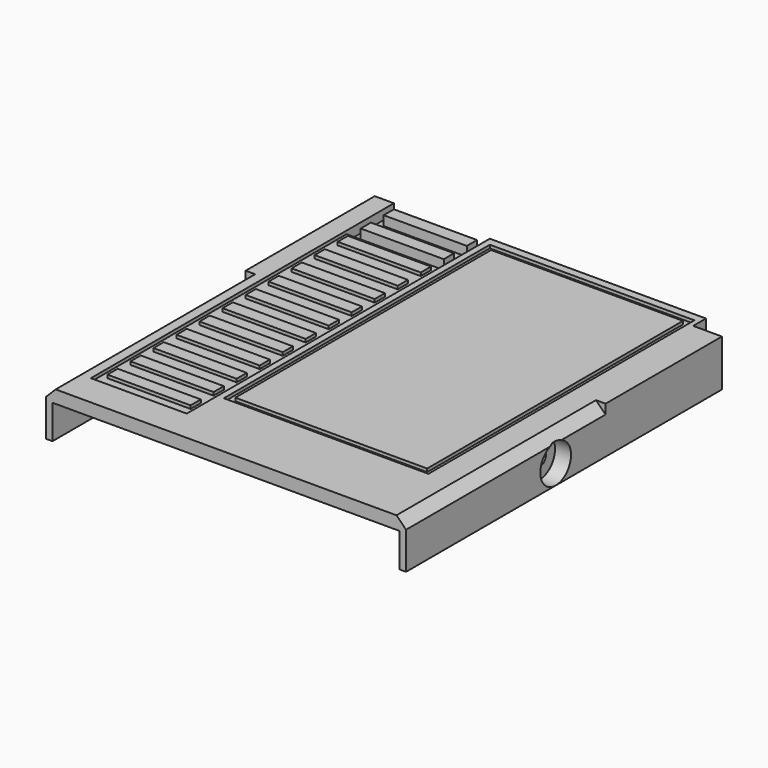
from build123d import *

# Parameters (mm, degrees)
BOX017_W          = 30
BOX017_H          = 50
BOX017_DEPTH      = 0.5
BOX020_W          = 13
BOX020_H          = 2
BOX020_DEPTH      = 1
BOX021_W          = 13
BOX021_H          = 2
BOX021_DEPTH      = 1
BOX022_W          = 13
BOX022_H          = 2
BOX022_DEPTH      = 1
BOX023_W          = 13
BOX023_H          = 2
BOX023_DEPTH      = 1
BOX024_W          = 13
BOX024_H          = 2
BOX024_DEPTH      = 1
BOX025_W          = 13
BOX025_H          = 2
BOX025_DEPTH      = 1
BOX030_W          = 13
BOX030_H          = 2
BOX030_DEPTH      = 1
BOX031_W          = 13
BOX031_H          = 2
BOX031_DEPTH      = 1
BOX032_W          = 13
BOX032_H          = 2
BOX032_DEPTH      = 1
BOX034_W          = 13
BOX034_H          = 2
BOX034_DEPTH      = 1
BOX035_W          = 13
BOX035_H          = 2
BOX035_DEPTH      = 1
BOX038_W          = 13
BOX038_H          = 2
BOX038_DEPTH      = 1.5
BOX040_W          = 13
BOX040_H          = 2
BOX040_DEPTH      = 1.5
BOX043_W          = 13.5
BOX043_H          = 1
BOX043_DEPTH      = 5
CYLINDER001_R     = 1.25
CYLINDER001_DEPTH = 2.5
CYLINDER_R        = 3
CYLINDER_DEPTH    = 2.5
BOX041_W          = 32
BOX041_H          = 52
BOX041_DEPTH      = 0.5
BOX018_W          = 15
BOX018_H          = 53
BOX018_DEPTH      = 0.5
BOX008_W          = 56.3
BOX008_H          = 39
BOX008_DEPTH      = 2
CHAMFER_SIZE      = 1.5
BOX019_W          = 15
BOX019_H          = 9.25
BOX019_DEPTH      = 1.5
BOX029_W          = 17
BOX029_H          = 9.25
BOX029_DEPTH      = 1.5
BOX010_W          = 10
BOX010_H          = 10
BOX010_DEPTH      = 10
BOX007_W          = 56.3
BOX007_H          = 25.25
BOX007_DEPTH      = 2
BOX042_W          = 54.3
BOX042_H          = 60.25
BOX042_DEPTH      = 5.3
BOX001_W          = 4.5
BOX001_H          = 2.5
BOX001_DEPTH      = 5.3
BOX_W             = 56.3
BOX_H             = 64.25
BOX_DEPTH         = 5.3
BOX044_W          = 4
BOX044_H          = 8
BOX044_DEPTH      = 5.3


with BuildPart() as obj1:
    # Box017 → Box017 (new body)
    with BuildSketch(Plane(origin=(20, 12, 6.8), x_dir=(1, 0, 0), z_dir=(0, 0, 1))):
        with Locations((15, 25)):
            Rectangle(BOX017_W, BOX017_H)
    extrude(amount=BOX017_DEPTH)


with BuildPart() as cube_ladders:
    # Box020 → Box020 (new body)
    with BuildSketch(Plane(origin=(4, 7, 6.3), x_dir=(1, 0, 0), z_dir=(0, 0, 1))):
        with Locations((6.5, 1)):
            Rectangle(BOX020_W, BOX020_H)
    extrude(amount=BOX020_DEPTH)


with BuildPart() as box021:
    # Box021 → Box021 (new body)
    with BuildSketch(Plane(origin=(4, 11.5, 6.3), x_dir=(1, 0, 0), z_dir=(0, 0, 1))):
        with Locations((6.5, 1)):
            Rectangle(BOX021_W, BOX021_H)
    extrude(amount=BOX021_DEPTH)


with BuildPart() as box022:
    # Box022 → Box022 (new body)
    with BuildSketch(Plane(origin=(4, 16, 6.3), x_dir=(1, 0, 0), z_dir=(0, 0, 1))):
        with Locations((6.5, 1)):
            Rectangle(BOX022_W, BOX022_H)
    extrude(amount=BOX022_DEPTH)


with BuildPart() as box023:
    # Box023 → Box023 (new body)
    with BuildSketch(Plane(origin=(4, 20.5, 6.3), x_dir=(1, 0, 0), z_dir=(0, 0, 1))):
        with Locations((6.5, 1)):
            Rectangle(BOX023_W, BOX023_H)
    extrude(amount=BOX023_DEPTH)


with BuildPart() as box024:
    # Box024 → Box024 (new body)
    with BuildSketch(Plane(origin=(4, 25, 6.3), x_dir=(1, 0, 0), z_dir=(0, 0, 1))):
        with Locations((6.5, 1)):
            Rectangle(BOX024_W, BOX024_H)
    extrude(amount=BOX024_DEPTH)


with BuildPart() as box025:
    # Box025 → Box025 (new body)
    with BuildSketch(Plane(origin=(4, 29.5, 6.3), x_dir=(1, 0, 0), z_dir=(0, 0, 1))):
        with Locations((6.5, 1)):
            Rectangle(BOX025_W, BOX025_H)
    extrude(amount=BOX025_DEPTH)


with BuildPart() as box030:
    # Box030 → Box030 (new body)
    with BuildSketch(Plane(origin=(4, 34, 6.3), x_dir=(1, 0, 0), z_dir=(0, 0, 1))):
        with Locations((6.5, 1)):
            Rectangle(BOX030_W, BOX030_H)
    extrude(amount=BOX030_DEPTH)


with BuildPart() as box031:
    # Box031 → Box031 (new body)
    with BuildSketch(Plane(origin=(4, 38.5, 6.3), x_dir=(1, 0, 0), z_dir=(0, 0, 1))):
        with Locations((6.5, 1)):
            Rectangle(BOX031_W, BOX031_H)
    extrude(amount=BOX031_DEPTH)


with BuildPart() as box032:
    # Box032 → Box032 (new body)
    with BuildSketch(Plane(origin=(4, 43, 6.3), x_dir=(1, 0, 0), z_dir=(0, 0, 1))):
        with Locations((6.5, 1)):
            Rectangle(BOX032_W, BOX032_H)
    extrude(amount=BOX032_DEPTH)


with BuildPart() as box034:
    # Box034 → Box034 (new body)
    with BuildSketch(Plane(origin=(4, 47.5, 6.3), x_dir=(1, 0, 0), z_dir=(0, 0, 1))):
        with Locations((6.5, 1)):
            Rectangle(BOX034_W, BOX034_H)
    extrude(amount=BOX034_DEPTH)


with BuildPart() as box035:
    # Box035 → Box035 (new body)
    with BuildSketch(Plane(origin=(4, 52, 6.3), x_dir=(1, 0, 0), z_dir=(0, 0, 1))):
        with Locations((6.5, 1)):
            Rectangle(BOX035_W, BOX035_H)
    extrude(amount=BOX035_DEPTH)


with BuildPart() as box038:
    # Box038 → Box038 (new body)
    with BuildSketch(Plane(origin=(4, 56.5, 5.8), x_dir=(1, 0, 0), z_dir=(0, 0, 1))):
        with Locations((6.5, 1)):
            Rectangle(BOX038_W, BOX038_H)
    extrude(amount=BOX038_DEPTH)


with BuildPart() as box040:
    # Box040 → Box040 (new body)
    with BuildSketch(Plane(origin=(4, 61, 5.8), x_dir=(1, 0, 0), z_dir=(0, 0, 1))):
        with Locations((6.5, 1)):
            Rectangle(BOX040_W, BOX040_H)
    extrude(amount=BOX040_DEPTH)


with BuildPart() as cube_sd_card_cover:
    # Box043 → Box043 (new body)
    with BuildSketch(Plane(origin=(28.6, 63.25, -5), x_dir=(1, 0, 0), z_dir=(0, 0, 1))):
        with Locations((6.75, 0.5)):
            Rectangle(BOX043_W, BOX043_H)
    extrude(amount=BOX043_DEPTH)


with BuildPart() as cylinder001:
    # Cylinder001 → Cylinder001 (new body)
    with BuildSketch(Plane(origin=(51.3, 29.25, 3), x_dir=(0, 0, -1), z_dir=(1, 0, 0))):
        Circle(CYLINDER001_R)
    extrude(amount=CYLINDER001_DEPTH)


with BuildPart() as fusion:
    # Cylinder → Cylinder (new body)
    with BuildSketch(Plane(origin=(53.8, 29.25, 3), x_dir=(0, 0, -1), z_dir=(1, 0, 0))):
        Circle(CYLINDER_R)
    extrude(amount=CYLINDER_DEPTH)

    # Fusion: union Cylinder001
    add(cylinder001.part)


with BuildPart() as obj2:
    # Box041 → Box041 (new body)
    with BuildSketch(Plane(origin=(19, 11, 6.8), x_dir=(1, 0, 0), z_dir=(0, 0, 1))):
        with Locations((16, 26)):
            Rectangle(BOX041_W, BOX041_H)
    extrude(amount=BOX041_DEPTH)


with BuildPart() as cube_cube_strips:
    # Box018 → Box018 (new body)
    with BuildSketch(Plane(origin=(3, 5, 6.8), x_dir=(1, 0, 0), z_dir=(0, 0, 1))):
        with Locations((7.5, 26.5)):
            Rectangle(BOX018_W, BOX018_H)
    extrude(amount=BOX018_DEPTH)


with BuildPart() as chamfer_body:
    # Box008 → Box008 (new body)
    with BuildSketch(Plane.XY.offset(5.3)):
        with Locations((28.15, 19.5)):
            Rectangle(BOX008_W, BOX008_H)
    extrude(amount=BOX008_DEPTH)

    # Chamfer
    chamfer_edges = [chamfer_body.edges().sort_by_distance(p)[0] for p in [
        (0, 19.5, 7.3),
        (56.3, 19.5, 7.3),
    ]]
    chamfer(chamfer_edges, length=CHAMFER_SIZE)


with BuildPart() as cube_cube_strip_top:
    # Box019 → Box019 (new body)
    with BuildSketch(Plane(origin=(3, 55, 5.8), x_dir=(1, 0, 0), z_dir=(0, 0, 1))):
        with Locations((7.5, 4.625)):
            Rectangle(BOX019_W, BOX019_H)
    extrude(amount=BOX019_DEPTH)


with BuildPart() as cube_cube_strip_top_outer:
    # Box029 → Box029 (new body)
    with BuildSketch(Plane(origin=(2, 55, 5.8), x_dir=(1, 0, 0), z_dir=(0, 0, 1))):
        with Locations((8.5, 4.625)):
            Rectangle(BOX029_W, BOX029_H)
    extrude(amount=BOX029_DEPTH)


with BuildPart() as cube_top_corner_cut:
    # Box010 → Box010 (new body)
    with BuildSketch(Plane(origin=(51.8, 61.75, 0), x_dir=(1, 0, 0), z_dir=(0, 0, 1))):
        with Locations((5, 5)):
            Rectangle(BOX010_W, BOX010_H)
    extrude(amount=BOX010_DEPTH)


with BuildPart() as cut013:
    # Box007 → Box007 (new body)
    with BuildSketch(Plane(origin=(0, 39, 5.3), x_dir=(1, 0, 0), z_dir=(0, 0, 1))):
        with Locations((28.15, 12.625)):
            Rectangle(BOX007_W, BOX007_H)
    extrude(amount=BOX007_DEPTH)

    # Cut006: cut Cube(top_corner_cut)
    add(cube_top_corner_cut.part, mode=Mode.SUBTRACT)

    # Fusion003: union Cube(cube_strip_top_outer)
    add(cube_cube_strip_top_outer.part)

    # Cut008: cut Cube(cube_strip_top)
    add(cube_cube_strip_top.part, mode=Mode.SUBTRACT)

    # Fusion004: union Chamfer body
    add(chamfer_body.part)

    # Cut012: cut Cube(cube_strips)
    add(cube_cube_strips.part, mode=Mode.SUBTRACT)

    # Cut013: cut obj2)
    add(obj2.part, mode=Mode.SUBTRACT)


with BuildPart() as box042:
    # Box042 → Box042 (new body)
    with BuildSketch(Plane(origin=(1, 0, 0), x_dir=(1, 0, 0), z_dir=(0, 0, 1))):
        with Locations((27.15, 30.125)):
            Rectangle(BOX042_W, BOX042_H)
    extrude(amount=BOX042_DEPTH)


with BuildPart() as cube_corner_inner:
    # Box001 → Box001 (new body)
    with BuildSketch(Plane(origin=(51.8, 61.75, 0), x_dir=(1, 0, 0), z_dir=(0, 0, 1))):
        with Locations((2.25, 1.25)):
            Rectangle(BOX001_W, BOX001_H)
    extrude(amount=BOX001_DEPTH)


with BuildPart() as cut014:
    # Box → Box (new body)
    with BuildSketch(Plane.XY):
        with Locations((28.15, 32.125)):
            Rectangle(BOX_W, BOX_H)
    extrude(amount=BOX_DEPTH)

    # Cut: cut Cube(corner_inner)
    add(cube_corner_inner.part, mode=Mode.SUBTRACT)

    # Cut014: cut Box042
    add(box042.part, mode=Mode.SUBTRACT)


with BuildPart() as cut015:
    # Box044 → Box044 (new body)
    with BuildSketch(Plane(origin=(51.3, 25.2, 0), x_dir=(1, 0, 0), z_dir=(0, 0, 1))):
        with Locations((2, 4)):
            Rectangle(BOX044_W, BOX044_H)
    extrude(amount=BOX044_DEPTH)

    # Fusion005: union Cut014
    add(cut014.part)

    # Fusion006: union Cut013
    add(cut013.part)

    # Cut015: cut Fusion
    add(fusion.part, mode=Mode.SUBTRACT)


solid = Compound([obj1.part, cube_ladders.part, box021.part, box022.part, box023.part, box024.part, box025.part, box030.part, box031.part, box032.part, box034.part, box035.part, box038.part, box040.part, cube_sd_card_cover.part, cut015.part])
